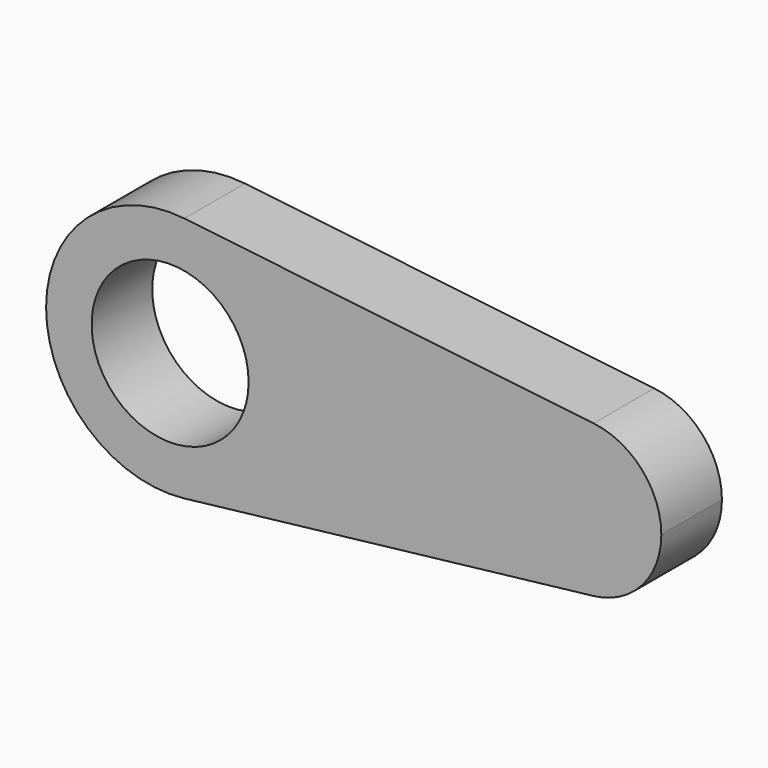
from build123d import *

# Parameters (mm, degrees)
F0_R     = 20.723575
F1_DEPTH = 10


with BuildPart() as f1:
    # F0 (on Front) → F1 (new body, symmetric)
    with BuildSketch(Plane.XZ):
        with BuildLine():
            ThreePointArc((-61.939632, -32.533884), (-41.244212, -21.790254), (-32.942958, 0))
            ThreePointArc((-32.942958, 0), (-41.244212, 21.790254), (-61.939632, 32.533884))
            ThreePointArc((-61.939632, 32.533884), (-98.442219, 0), (-61.939632, -32.533884))
        make_face()
        with Locations((-65.692589, 0)):
            Circle(F0_R, mode=Mode.SUBTRACT)
        with BuildLine():
            ThreePointArc((-61.939632, 32.533884), (-41.244212, 21.790254), (-32.942958, 0))
            ThreePointArc((-32.942958, 0), (-41.244212, -21.790254), (-61.939632, -32.533884))
            Line((-61.939632, -32.533884), (46.11021, -20.069761))
            ThreePointArc((46.11021, -20.069761), (23.592204, 0), (46.11021, 20.069761))
            Line((46.11021, 20.069761), (-61.939632, 32.533884))
        make_face()
        with BuildLine():
            ThreePointArc((63.997909, 0), (58.876966, 13.442145), (46.11021, 20.069761))
            ThreePointArc((46.11021, 20.069761), (23.592204, 0), (46.11021, -20.069761))
            ThreePointArc((46.11021, -20.069761), (58.876966, -13.442145), (63.997909, 0))
        make_face()
    extrude(amount=F1_DEPTH, both=True)


solid = f1.part
